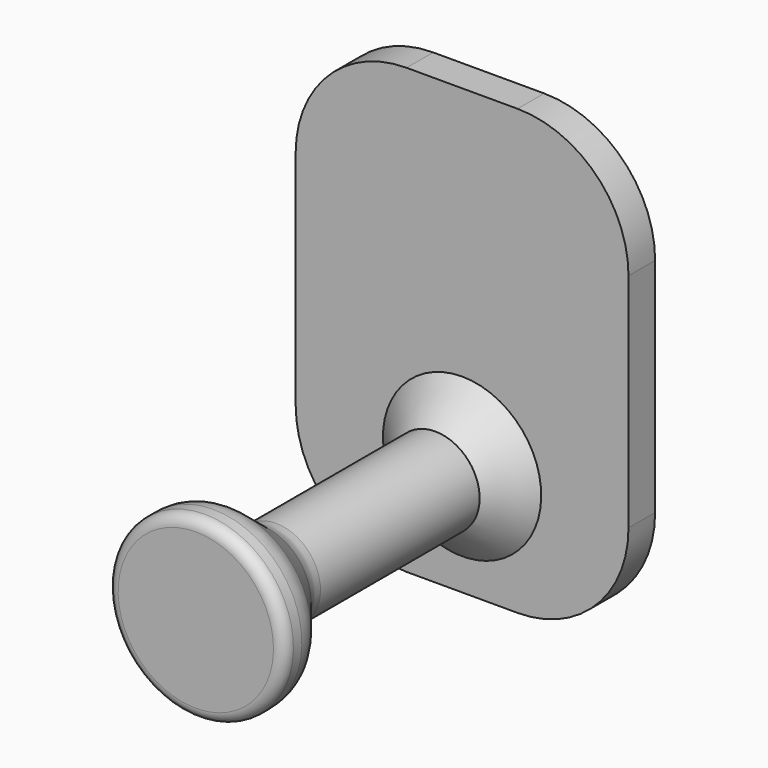
from build123d import *

# Parameters (mm, degrees)
F1_DEPTH = 3


with BuildPart() as f1:
    # F0 (on Front) → F1 (new body)
    with BuildSketch(Plane.XZ):
        with BuildLine():
            Line((5, 20), (-5, 20))
            ThreePointArc((-5, 20), (-12.0710678119, 17.0710678119), (-15, 10))
            Line((-15, 10), (-15, -10))
            ThreePointArc((-15, -10), (-12.0710678119, -17.0710678119), (-5, -20))
            Line((-5, -20), (5, -20))
            ThreePointArc((5, -20), (12.0710678119, -17.0710678119), (15, -10))
            Line((15, -10), (15, 10))
            ThreePointArc((15, 10), (12.0710678119, 17.0710678119), (5, 20))
        make_face()
    extrude(amount=F1_DEPTH)

    # F4 (on offset) → F5 (revolve)
    with BuildSketch(Plane.YZ):
        with BuildLine():
            Line((-33, -10), (-3, -10))
            Line((-3, -10), (-3, -6))
            Line((-3, -6), (-3, -2.8667848092))
            Line((-3, -2.8667848092), (-6.0189967044, -6))
            Line((-6.0189967044, -6), (-23.9476568219, -6))
            ThreePointArc((-23.9476568219, -6), (-24.9406776462, -5.8308849575), (-25.8217419646, -5.3426064283))
            Line((-25.8217419646, -5.3426064283), (-29.1782580354, -2.6573935717))
            ThreePointArc((-29.1782580354, -2.6573935717), (-30.0593223538, -2.1691150425), (-31.0523431781, -2))
            Line((-31.0523431781, -2), (-32, -2))
            ThreePointArc((-32, -2), (-32.7071067812, -2.2928932188), (-33, -3))
            Line((-33, -3), (-33, -10))
        make_face()
    revolve(axis=Axis((0, -24.5992667091, -10), (0, -1, 0)))


solid = f1.part
